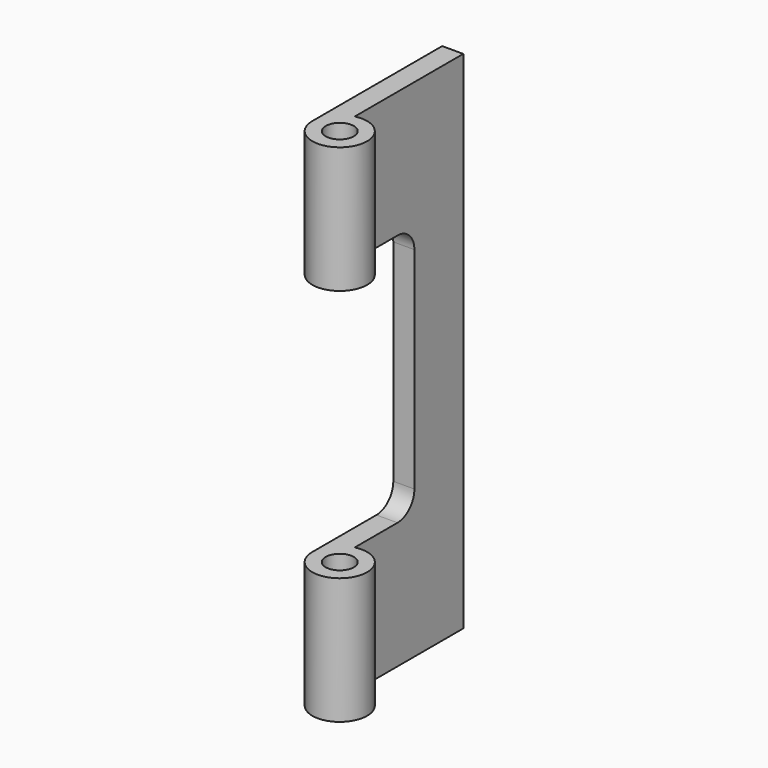
from build123d import *

# Parameters (mm, degrees)
F1_DEPTH = 38.1
F3_D     = 4.2333333333
F4_W     = 19.3675
F4_H     = 38.1
F5_DEPTH = 12.7
F6_R     = 3.175


with BuildPart() as f1:
    # F0 (on Top) → F1 (new body, symmetric)
    with BuildSketch(Plane.XY):
        with BuildLine():
            Line((-0.9525, 4.0160926284), (-0.9525, 24.4475))
            Line((-0.9525, 24.4475), (-4.1275, 24.4475))
            Line((-4.1275, 24.4475), (-4.1275, 0))
            ThreePointArc((-4.1275, 0), (3.2378773911, -2.5597668351), (-0.9525, 4.0160926284))
        make_face()
    extrude(amount=F1_DEPTH, both=True)

    # F3 (through all)
    with Locations(Plane.XY.offset(38.1)):
        with Locations((0, 0)):
            Hole(F3_D / 2)

    # F4 (on face) → F5 (cut, symmetric)
    with BuildSketch(Plane.YZ.offset(-0.9525)):
        with Locations((5.55625, 0)):
            Rectangle(F4_W, F4_H)
    extrude(amount=F5_DEPTH, both=True, mode=Mode.SUBTRACT)

    # F6
    f6_edges = [f1.edges().sort_by_distance(p)[0] for p in [
        (-2.54, 15.24, 19.05),
        (-2.54, 15.24, -19.05),
    ]]
    fillet(f6_edges, radius=F6_R)


solid = f1.part
